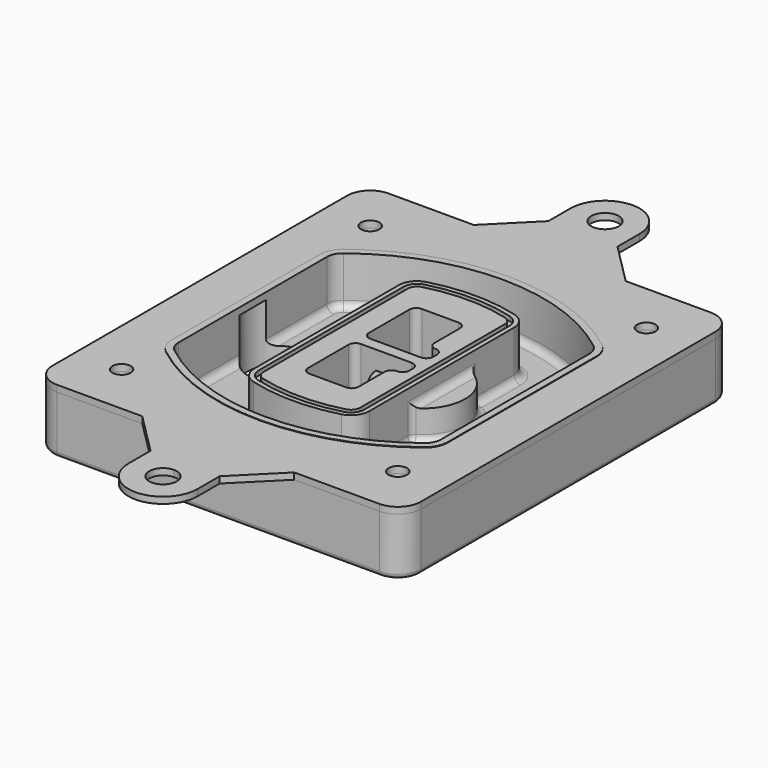
from build123d import *

# Parameters (mm, degrees)
F0_R      = 4
F1_DEPTH  = 25
F2_DEPTH  = 3
F3_DEPTH  = 18
F5_DEPTH  = 21
F6_DEPTH  = 2
F8_DEPTH  = 20
F9_DEPTH  = 16
F10_DEPTH = 25
F7_R      = 6
F7_R_2    = 4
F11_DEPTH = 6
F13_DEPTH = 9
F14_R     = 3
F15_R     = 2
F16_R     = 4
F17_DEPTH = 2.8


with BuildPart() as f1:
    # F0 (on Top) → F1 (new body)
    with BuildSketch(Plane.XY):
        with BuildLine():
            ThreePointArc((-80, -80), (-77.0710678119, -87.0710678119), (-70, -90))
            Line((-70, -90), (70, -90))
            ThreePointArc((70, -90), (77.0710678119, -87.0710678119), (80, -80))
            Line((80, -80), (80, 80))
            ThreePointArc((80, 80), (77.0710678119, 87.0710678119), (70, 90))
            Line((70, 90), (-70, 90))
            ThreePointArc((-70, 90), (-77.0710678119, 87.0710678119), (-80, 80))
            Line((-80, 80), (-80, -80))
        make_face()
        with Locations((-60, -67.5)):
            Circle(F0_R, mode=Mode.SUBTRACT)
        with Locations((60, -67.5)):
            Circle(F0_R, mode=Mode.SUBTRACT)
        with Locations((-60, 67.5)):
            Circle(F0_R, mode=Mode.SUBTRACT)
        with BuildLine():
            ThreePointArc((-64, 40.2934422872), (-62.5820384798, 46.4328484224), (-58.6153846154, 51.3286200352))
            ThreePointArc((-58.6153846154, 51.3286200352), (0, 71.5), (58.6153846154, 51.3286200352))
            ThreePointArc((58.6153846154, 51.3286200352), (62.5820384798, 46.4328484224), (64, 40.2934422872))
            Line((64, 40.2934422872), (64, -40.2934422872))
            ThreePointArc((64, -40.2934422872), (62.5820384798, -46.4328484224), (58.6153846154, -51.3286200352))
            ThreePointArc((58.6153846154, -51.3286200352), (0, -71.5), (-58.6153846154, -51.3286200352))
            ThreePointArc((-58.6153846154, -51.3286200352), (-62.5820384798, -46.4328484224), (-64, -40.2934422872))
            Line((-64, -40.2934422872), (-64, 40.2934422872))
        make_face(mode=Mode.SUBTRACT)
        with Locations((60, 67.5)):
            Circle(F0_R, mode=Mode.SUBTRACT)
        with BuildLine():
            ThreePointArc((58.6153846154, 51.3286200352), (0, 71.5), (-58.6153846154, 51.3286200352))
            ThreePointArc((-58.6153846154, 51.3286200352), (-62.5820384798, 46.4328484224), (-64, 40.2934422872))
            Line((-64, 40.2934422872), (-64, -40.2934422872))
            ThreePointArc((-64, -40.2934422872), (-62.5820384798, -46.4328484224), (-58.6153846154, -51.3286200352))
            ThreePointArc((-58.6153846154, -51.3286200352), (0, -71.5), (58.6153846154, -51.3286200352))
            ThreePointArc((58.6153846154, -51.3286200352), (62.5820384798, -46.4328484224), (64, -40.2934422872))
            Line((64, -40.2934422872), (64, 40.2934422872))
            ThreePointArc((64, 40.2934422872), (62.5820384798, 46.4328484224), (58.6153846154, 51.3286200352))
        make_face()
        with BuildLine():
            Line((-60, -40.2934422872), (-60, 40.2934422872))
            ThreePointArc((-60, 40.2934422872), (-58.9871703427, 44.6787323838), (-56.1538461538, 48.1757121072))
            ThreePointArc((-56.1538461538, 48.1757121072), (0, 67.5), (56.1538461538, 48.1757121072))
            ThreePointArc((56.1538461538, 48.1757121072), (58.9871703427, 44.6787323838), (60, 40.2934422872))
            Line((60, 40.2934422872), (60, -40.2934422872))
            ThreePointArc((60, -40.2934422872), (58.9871703427, -44.6787323838), (56.1538461538, -48.1757121072))
            ThreePointArc((56.1538461538, -48.1757121072), (0, -67.5), (-56.1538461538, -48.1757121072))
            ThreePointArc((-56.1538461538, -48.1757121072), (-58.9871703427, -44.6787323838), (-60, -40.2934422872))
        make_face(mode=Mode.SUBTRACT)
        with BuildLine():
            ThreePointArc((-56.1538461538, 48.1757121072), (-58.9871703427, 44.6787323838), (-60, 40.2934422872))
            Line((-60, 40.2934422872), (-60, -40.2934422872))
            ThreePointArc((-60, -40.2934422872), (-58.9871703427, -44.6787323838), (-56.1538461538, -48.1757121072))
            ThreePointArc((-56.1538461538, -48.1757121072), (0, -67.5), (56.1538461538, -48.1757121072))
            ThreePointArc((56.1538461538, -48.1757121072), (58.9871703427, -44.6787323838), (60, -40.2934422872))
            Line((60, -40.2934422872), (60, 40.2934422872))
            ThreePointArc((60, 40.2934422872), (58.9871703427, 44.6787323838), (56.1538461538, 48.1757121072))
            ThreePointArc((56.1538461538, 48.1757121072), (0, 67.5), (-56.1538461538, 48.1757121072))
        make_face()
        with BuildLine():
            ThreePointArc((54.3076923077, 45.8110311612), (56.2910192399, 43.3631453548), (57, 40.2934422872))
            Line((57, 40.2934422872), (57, -40.2934422872))
            ThreePointArc((57, -40.2934422872), (56.2910192399, -43.3631453548), (54.3076923077, -45.8110311612))
            ThreePointArc((54.3076923077, -45.8110311612), (0, -64.5), (-54.3076923077, -45.8110311612))
            ThreePointArc((-54.3076923077, -45.8110311612), (-56.2910192399, -43.3631453548), (-57, -40.2934422872))
            Line((-57, -40.2934422872), (-57, 40.2934422872))
            ThreePointArc((-57, 40.2934422872), (-56.2910192399, 43.3631453548), (-54.3076923077, 45.8110311612))
            ThreePointArc((-54.3076923077, 45.8110311612), (0, 64.5), (54.3076923077, 45.8110311612))
        make_face(mode=Mode.SUBTRACT)
        with BuildLine():
            Line((57, -40.2934422872), (57, 40.2934422872))
            ThreePointArc((57, 40.2934422872), (56.2910192399, 43.3631453548), (54.3076923077, 45.8110311612))
            ThreePointArc((54.3076923077, 45.8110311612), (0, 64.5), (-54.3076923077, 45.8110311612))
            ThreePointArc((-54.3076923077, 45.8110311612), (-56.2910192399, 43.3631453548), (-57, 40.2934422872))
            Line((-57, 40.2934422872), (-57, -40.2934422872))
            ThreePointArc((-57, -40.2934422872), (-56.2910192399, -43.3631453548), (-54.3076923077, -45.8110311612))
            ThreePointArc((-54.3076923077, -45.8110311612), (0, -64.5), (54.3076923077, -45.8110311612))
            ThreePointArc((54.3076923077, -45.8110311612), (56.2910192399, -43.3631453548), (57, -40.2934422872))
        make_face()
    extrude(amount=-F1_DEPTH)

    # F0 (on Top) → F2 (join)
    with BuildSketch(Plane.XY):
        with BuildLine():
            ThreePointArc((-56.1538461538, 48.1757121072), (-58.9871703427, 44.6787323838), (-60, 40.2934422872))
            Line((-60, 40.2934422872), (-60, -40.2934422872))
            ThreePointArc((-60, -40.2934422872), (-58.9871703427, -44.6787323838), (-56.1538461538, -48.1757121072))
            ThreePointArc((-56.1538461538, -48.1757121072), (0, -67.5), (56.1538461538, -48.1757121072))
            ThreePointArc((56.1538461538, -48.1757121072), (58.9871703427, -44.6787323838), (60, -40.2934422872))
            Line((60, -40.2934422872), (60, 40.2934422872))
            ThreePointArc((60, 40.2934422872), (58.9871703427, 44.6787323838), (56.1538461538, 48.1757121072))
            ThreePointArc((56.1538461538, 48.1757121072), (0, 67.5), (-56.1538461538, 48.1757121072))
        make_face()
        with BuildLine():
            ThreePointArc((54.3076923077, 45.8110311612), (56.2910192399, 43.3631453548), (57, 40.2934422872))
            Line((57, 40.2934422872), (57, -40.2934422872))
            ThreePointArc((57, -40.2934422872), (56.2910192399, -43.3631453548), (54.3076923077, -45.8110311612))
            ThreePointArc((54.3076923077, -45.8110311612), (0, -64.5), (-54.3076923077, -45.8110311612))
            ThreePointArc((-54.3076923077, -45.8110311612), (-56.2910192399, -43.3631453548), (-57, -40.2934422872))
            Line((-57, -40.2934422872), (-57, 40.2934422872))
            ThreePointArc((-57, 40.2934422872), (-56.2910192399, 43.3631453548), (-54.3076923077, 45.8110311612))
            ThreePointArc((-54.3076923077, 45.8110311612), (0, 64.5), (54.3076923077, 45.8110311612))
        make_face(mode=Mode.SUBTRACT)
    extrude(amount=F2_DEPTH)

    # F0 (on Top) → F3 (cut)
    with BuildSketch(Plane.XY):
        with BuildLine():
            Line((57, -40.2934422872), (57, 40.2934422872))
            ThreePointArc((57, 40.2934422872), (56.2910192399, 43.3631453548), (54.3076923077, 45.8110311612))
            ThreePointArc((54.3076923077, 45.8110311612), (0, 64.5), (-54.3076923077, 45.8110311612))
            ThreePointArc((-54.3076923077, 45.8110311612), (-56.2910192399, 43.3631453548), (-57, 40.2934422872))
            Line((-57, 40.2934422872), (-57, -40.2934422872))
            ThreePointArc((-57, -40.2934422872), (-56.2910192399, -43.3631453548), (-54.3076923077, -45.8110311612))
            ThreePointArc((-54.3076923077, -45.8110311612), (0, -64.5), (54.3076923077, -45.8110311612))
            ThreePointArc((54.3076923077, -45.8110311612), (56.2910192399, -43.3631453548), (57, -40.2934422872))
        make_face()
    extrude(amount=-F3_DEPTH, mode=Mode.SUBTRACT)

    # F4 (on face) → F5 (join, through all)
    with BuildSketch(Plane.XY.offset(3)):
        with BuildLine():
            ThreePointArc((-25, -39.2465276821), (-23.3511545998, -44.1109737193), (-19.0842911877, -46.9702398883))
            ThreePointArc((-19.0842911877, -46.9702398883), (0, -49.5), (19.0842911877, -46.9702398883))
            ThreePointArc((19.0842911877, -46.9702398883), (23.3511545998, -44.1109737193), (25, -39.2465276821))
            Line((25, -39.2465276821), (25, 39.2465276821))
            ThreePointArc((25, 39.2465276821), (23.3511545998, 44.1109737193), (19.0842911877, 46.9702398883))
            ThreePointArc((19.0842911877, 46.9702398883), (0, 49.5), (-19.0842911877, 46.9702398883))
            ThreePointArc((-19.0842911877, 46.9702398883), (-23.3511545998, 44.1109737193), (-25, 39.2465276821))
            Line((-25, 39.2465276821), (-25, -39.2465276821))
        make_face()
        with BuildLine():
            ThreePointArc((18.5632183908, 45.0393118368), (21.7633659499, 42.89486221), (23, 39.2465276821))
            Line((23, 39.2465276821), (23, -39.2465276821))
            ThreePointArc((23, -39.2465276821), (21.7633659499, -42.89486221), (18.5632183908, -45.0393118368))
            ThreePointArc((18.5632183908, -45.0393118368), (0, -47.5), (-18.5632183908, -45.0393118368))
            ThreePointArc((-18.5632183908, -45.0393118368), (-21.7633659499, -42.89486221), (-23, -39.2465276821))
            Line((-23, -39.2465276821), (-23, 39.2465276821))
            ThreePointArc((-23, 39.2465276821), (-21.7633659499, 42.89486221), (-18.5632183908, 45.0393118368))
            ThreePointArc((-18.5632183908, 45.0393118368), (0, 47.5), (18.5632183908, 45.0393118368))
        make_face(mode=Mode.SUBTRACT)
        with BuildLine():
            Line((23, -39.2465276821), (23, 39.2465276821))
            ThreePointArc((23, 39.2465276821), (21.7633659499, 42.89486221), (18.5632183908, 45.0393118368))
            ThreePointArc((18.5632183908, 45.0393118368), (0, 47.5), (-18.5632183908, 45.0393118368))
            ThreePointArc((-18.5632183908, 45.0393118368), (-21.7633659499, 42.89486221), (-23, 39.2465276821))
            Line((-23, 39.2465276821), (-23, -39.2465276821))
            ThreePointArc((-23, -39.2465276821), (-21.7633659499, -42.89486221), (-18.5632183908, -45.0393118368))
            ThreePointArc((-18.5632183908, -45.0393118368), (0, -47.5), (18.5632183908, -45.0393118368))
            ThreePointArc((18.5632183908, -45.0393118368), (21.7633659499, -42.89486221), (23, -39.2465276821))
        make_face()
        with BuildLine():
            ThreePointArc((18.0421455939, 43.1083837852), (20.1755772999, 41.6787507007), (21, 39.2465276821))
            Line((21, 39.2465276821), (21, -39.2465276821))
            ThreePointArc((21, -39.2465276821), (20.1755772999, -41.6787507007), (18.0421455939, -43.1083837852))
            ThreePointArc((18.0421455939, -43.1083837852), (0, -45.5), (-18.0421455939, -43.1083837852))
            ThreePointArc((-18.0421455939, -43.1083837852), (-20.1755772999, -41.6787507007), (-21, -39.2465276821))
            Line((-21, -39.2465276821), (-21, 39.2465276821))
            ThreePointArc((-21, 39.2465276821), (-20.1755772999, 41.6787507007), (-18.0421455939, 43.1083837852))
            ThreePointArc((-18.0421455939, 43.1083837852), (0, 45.5), (18.0421455939, 43.1083837852))
        make_face(mode=Mode.SUBTRACT)
        with BuildLine():
            Line((21, -39.2465276821), (21, 39.2465276821))
            ThreePointArc((21, 39.2465276821), (20.1755772999, 41.6787507007), (18.0421455939, 43.1083837852))
            ThreePointArc((18.0421455939, 43.1083837852), (0, 45.5), (-18.0421455939, 43.1083837852))
            ThreePointArc((-18.0421455939, 43.1083837852), (-20.1755772999, 41.6787507007), (-21, 39.2465276821))
            Line((-21, 39.2465276821), (-21, -39.2465276821))
            ThreePointArc((-21, -39.2465276821), (-20.1755772999, -41.6787507007), (-18.0421455939, -43.1083837852))
            ThreePointArc((-18.0421455939, -43.1083837852), (0, -45.5), (18.0421455939, -43.1083837852))
            ThreePointArc((18.0421455939, -43.1083837852), (20.1755772999, -41.6787507007), (21, -39.2465276821))
        make_face()
        with BuildLine():
            Line((-8, -2.5), (14, -2.5))
            ThreePointArc((14, -2.5), (16.1213203436, -3.3786796564), (17, -5.5))
            Line((17, -5.5), (17, -7.5))
            ThreePointArc((17, -7.5), (16.1213203436, -9.6213203436), (14, -10.5))
            ThreePointArc((14, -10.5), (11.8786796564, -11.3786796564), (11, -13.5))
            Line((11, -13.5), (11, -27.5))
            ThreePointArc((11, -27.5), (10.1213203436, -29.6213203436), (8, -30.5))
            Line((8, -30.5), (-8, -30.5))
            ThreePointArc((-8, -30.5), (-10.1213203436, -29.6213203436), (-11, -27.5))
            Line((-11, -27.5), (-11, -5.5))
            ThreePointArc((-11, -5.5), (-10.1213203436, -3.3786796564), (-8, -2.5))
        make_face(mode=Mode.SUBTRACT)
        with BuildLine():
            ThreePointArc((-8, 2.5), (-10.1213203436, 3.3786796564), (-11, 5.5))
            Line((-11, 5.5), (-11, 27.5))
            ThreePointArc((-11, 27.5), (-10.1213203436, 29.6213203436), (-8, 30.5))
            Line((-8, 30.5), (8, 30.5))
            ThreePointArc((8, 30.5), (10.1213203436, 29.6213203436), (11, 27.5))
            Line((11, 27.5), (11, 13.5))
            ThreePointArc((11, 13.5), (11.8786796564, 11.3786796564), (14, 10.5))
            ThreePointArc((14, 10.5), (16.1213203436, 9.6213203436), (17, 7.5))
            Line((17, 7.5), (17, 5.5))
            ThreePointArc((17, 5.5), (16.1213203436, 3.3786796564), (14, 2.5))
            Line((14, 2.5), (-8, 2.5))
        make_face(mode=Mode.SUBTRACT)
    extrude(amount=-F5_DEPTH)

    # F4 (on face) → F6 (cut)
    with BuildSketch(Plane.XY.offset(3)):
        with BuildLine():
            Line((23, -39.2465276821), (23, 39.2465276821))
            ThreePointArc((23, 39.2465276821), (21.7633659499, 42.89486221), (18.5632183908, 45.0393118368))
            ThreePointArc((18.5632183908, 45.0393118368), (0, 47.5), (-18.5632183908, 45.0393118368))
            ThreePointArc((-18.5632183908, 45.0393118368), (-21.7633659499, 42.89486221), (-23, 39.2465276821))
            Line((-23, 39.2465276821), (-23, -39.2465276821))
            ThreePointArc((-23, -39.2465276821), (-21.7633659499, -42.89486221), (-18.5632183908, -45.0393118368))
            ThreePointArc((-18.5632183908, -45.0393118368), (0, -47.5), (18.5632183908, -45.0393118368))
            ThreePointArc((18.5632183908, -45.0393118368), (21.7633659499, -42.89486221), (23, -39.2465276821))
        make_face()
        with BuildLine():
            ThreePointArc((18.0421455939, 43.1083837852), (20.1755772999, 41.6787507007), (21, 39.2465276821))
            Line((21, 39.2465276821), (21, -39.2465276821))
            ThreePointArc((21, -39.2465276821), (20.1755772999, -41.6787507007), (18.0421455939, -43.1083837852))
            ThreePointArc((18.0421455939, -43.1083837852), (0, -45.5), (-18.0421455939, -43.1083837852))
            ThreePointArc((-18.0421455939, -43.1083837852), (-20.1755772999, -41.6787507007), (-21, -39.2465276821))
            Line((-21, -39.2465276821), (-21, 39.2465276821))
            ThreePointArc((-21, 39.2465276821), (-20.1755772999, 41.6787507007), (-18.0421455939, 43.1083837852))
            ThreePointArc((-18.0421455939, 43.1083837852), (0, 45.5), (18.0421455939, 43.1083837852))
        make_face(mode=Mode.SUBTRACT)
    extrude(amount=-F6_DEPTH, mode=Mode.SUBTRACT)

    # F7 (on face) → F8 (join)
    with BuildSketch(Plane(origin=(0, 0, -25), x_dir=(1, 0, 0), z_dir=(0, 0, -1))):
        with BuildLine():
            ThreePointArc((3.28842436, 0), (16.7567035675, 13.4682792075), (30.224982775, 0))
            Line((30.224982775, 0), (35.224982775, 0))
            ThreePointArc((35.224982775, 0), (16.7567035675, 18.4682792075), (-1.71157564, 0))
            Line((-1.71157564, 0), (3.28842436, 0))
        make_face()
        with BuildLine():
            Line((3.28842436, 0), (30.224982775, 0))
            ThreePointArc((30.224982775, 0), (16.7567035675, 13.4682792075), (3.28842436, 0))
        make_face()
        with BuildLine():
            ThreePointArc((3.28842436, 0), (16.7567035675, -13.4682792075), (30.224982775, 0))
            Line((30.224982775, 0), (3.28842436, 0))
        make_face()
        with BuildLine():
            Line((35.224982775, 0), (30.224982775, 0))
            ThreePointArc((30.224982775, 0), (16.7567035675, -13.4682792075), (3.28842436, 0))
            Line((3.28842436, 0), (-1.71157564, 0))
            ThreePointArc((-1.71157564, 0), (16.7567035675, -18.4682792075), (35.224982775, 0))
        make_face()
    extrude(amount=-F8_DEPTH)

    # F7 (on face) → F9 (cut)
    with BuildSketch(Plane(origin=(0, 0, -25), x_dir=(1, 0, 0), z_dir=(0, 0, -1))):
        with BuildLine():
            Line((3.28842436, 0), (30.224982775, 0))
            ThreePointArc((30.224982775, 0), (16.7567035675, 13.4682792075), (3.28842436, 0))
        make_face()
        with BuildLine():
            ThreePointArc((3.28842436, 0), (16.7567035675, -13.4682792075), (30.224982775, 0))
            Line((30.224982775, 0), (3.28842436, 0))
        make_face()
    extrude(amount=-F9_DEPTH, mode=Mode.SUBTRACT)

    # F7 (on face) → F10 (cut)
    with BuildSketch(Plane(origin=(0, 0, -25), x_dir=(1, 0, 0), z_dir=(0, 0, -1))):
        with BuildLine():
            Line((-59.0318229325, 0), (-32.0952645175, 0))
            ThreePointArc((-32.0952645175, 0), (-45.563543725, 13.4682792075), (-59.0318229325, 0))
        make_face()
        with BuildLine():
            ThreePointArc((-59.0318229325, 0), (-45.563543725, -13.4682792075), (-32.0952645175, 0))
            Line((-32.0952645175, 0), (-59.0318229325, 0))
        make_face()
    extrude(amount=-F10_DEPTH, mode=Mode.SUBTRACT)

    # F7 (on face) → F11 (cut)
    with BuildSketch(Plane(origin=(0, 0, -25), x_dir=(1, 0, 0), z_dir=(0, 0, -1))):
        with Locations((60, -67.5)):
            Circle(F7_R)
        with Locations((60, -67.5)):
            Circle(F7_R_2, mode=Mode.SUBTRACT)
        with Locations((60, -67.5)):
            Circle(F7_R)
        with Locations((60, -67.5)):
            Circle(F7_R_2, mode=Mode.SUBTRACT)
        with Locations((-60, -67.5)):
            Circle(F7_R)
        with Locations((-60, -67.5)):
            Circle(F7_R_2, mode=Mode.SUBTRACT)
        with Locations((-60, -67.5)):
            Circle(F7_R)
        with Locations((-60, -67.5)):
            Circle(F7_R_2, mode=Mode.SUBTRACT)
        with Locations((-60, 67.5)):
            Circle(F7_R)
        with Locations((-60, 67.5)):
            Circle(F7_R_2, mode=Mode.SUBTRACT)
        with Locations((-60, 67.5)):
            Circle(F7_R)
        with Locations((-60, 67.5)):
            Circle(F7_R_2, mode=Mode.SUBTRACT)
        with Locations((60, 67.5)):
            Circle(F7_R)
        with Locations((60, 67.5)):
            Circle(F7_R_2, mode=Mode.SUBTRACT)
        with Locations((60, 67.5)):
            Circle(F7_R)
        with Locations((60, 67.5)):
            Circle(F7_R_2, mode=Mode.SUBTRACT)
    extrude(amount=-F11_DEPTH, mode=Mode.SUBTRACT)

    # F12 (on face) → F13 (cut, through all)
    with BuildSketch(Plane(origin=(0, 0, -9), x_dir=(1, 0, 0), z_dir=(0, 0, -1))):
        with BuildLine():
            Line((11, 13.5), (11, 17.5481537753))
            ThreePointArc((11, 17.5481537753), (2.5696536419, 11.8239143813), (-1.5415842455, 2.5))
            Line((-1.5415842455, 2.5), (3.5224848595, 2.5))
            ThreePointArc((3.5224848595, 2.5), (6.1857188154, 8.3455872281), (11.2536447004, 12.2927168648))
            ThreePointArc((11.2536447004, 12.2927168648), (11.0640958889, 12.8831798879), (11, 13.5))
        make_face()
        with BuildLine():
            ThreePointArc((11.2536447004, -12.2927168648), (6.1857188154, -8.3455872281), (3.5224848595, -2.5))
            Line((3.5224848595, -2.5), (-1.5415842455, -2.5))
            ThreePointArc((-1.5415842455, -2.5), (2.5696536419, -11.8239143813), (11, -17.5481537753))
            Line((11, -17.5481537753), (11, -13.5))
            ThreePointArc((11, -13.5), (11.0640958889, -12.8831798879), (11.2536447004, -12.2927168648))
        make_face()
        with BuildLine():
            ThreePointArc((11.2536447004, 12.2927168648), (6.1857188154, 8.3455872281), (3.5224848595, 2.5))
            Line((3.5224848595, 2.5), (14, 2.5))
            ThreePointArc((14, 2.5), (16.1213203436, 3.3786796564), (17, 5.5))
            Line((17, 5.5), (17, 7.5))
            ThreePointArc((17, 7.5), (16.1213203436, 9.6213203436), (14, 10.5))
            ThreePointArc((14, 10.5), (12.3601599782, 10.9878446101), (11.2536447004, 12.2927168648))
        make_face()
        with BuildLine():
            Line((14, -2.5), (3.5224848595, -2.5))
            ThreePointArc((3.5224848595, -2.5), (6.1857188154, -8.3455872281), (11.2536447004, -12.2927168648))
            ThreePointArc((11.2536447004, -12.2927168648), (12.3601599782, -10.9878446101), (14, -10.5))
            ThreePointArc((14, -10.5), (16.1213203436, -9.6213203436), (17, -7.5))
            Line((17, -7.5), (17, -5.5))
            ThreePointArc((17, -5.5), (16.1213203436, -3.3786796564), (14, -2.5))
        make_face()
    extrude(amount=F13_DEPTH, mode=Mode.SUBTRACT)

    # F14
    f14_edges = [f1.edges().sort_by_distance(p)[0] for p in [
        (-57, -23.703476, -18),
        (-57, 23.703476, -18),
        (25, 0, -5),
        (25, 16.526506, -11.5),
        (25, -16.526506, -11.5),
        (25, -27.886517, -18),
        (35.224983, 0, -18),
    ]]
    fillet(f14_edges, radius=F14_R)

    # F15
    f15_edges = [f1.edges().sort_by_distance(p)[0] for p in [
        (0, -90, -25),
    ]]
    fillet(f15_edges, radius=F15_R)


with BuildPart() as f17:
    # F16 (on face) → F17 (new body)
    with BuildSketch(Plane.XY):
        with BuildLine():
            Line((-33, 90), (-70, 90))
            ThreePointArc((-70, 90), (-77.0710678119, 87.0710678119), (-80, 80))
            Line((-80, 80), (-80, -80))
            ThreePointArc((-80, -80), (-77.0710678119, -87.0710678119), (-70, -90))
            Line((-70, -90), (-33, -90))
            Line((-33, -90), (0, -90))
            Line((0, -90), (33, -90))
            Line((33, -90), (70, -90))
            ThreePointArc((70, -90), (77.0710678119, -87.0710678119), (80, -80))
            Line((80, -80), (80, 80))
            ThreePointArc((80, 80), (77.0710678119, 87.0710678119), (70, 90))
            Line((70, 90), (33, 90))
            Line((33, 90), (0, 90))
            Line((0, 90), (-33, 90))
        make_face()
        with Locations((-60, -67.5)):
            Circle(F16_R, mode=Mode.SUBTRACT)
        with Locations((60, -67.5)):
            Circle(F16_R, mode=Mode.SUBTRACT)
        with Locations((-60, 67.5)):
            Circle(F16_R, mode=Mode.SUBTRACT)
        with BuildLine():
            ThreePointArc((-56.1538461538, 48.1757121072), (0, 67.5), (56.1538461538, 48.1757121072))
            ThreePointArc((56.1538461538, 48.1757121072), (58.9871703427, 44.6787323838), (60, 40.2934422872))
            Line((60, 40.2934422872), (60, -40.2934422872))
            ThreePointArc((60, -40.2934422872), (58.9871703427, -44.6787323838), (56.1538461538, -48.1757121072))
            ThreePointArc((56.1538461538, -48.1757121072), (0, -67.5), (-56.1538461538, -48.1757121072))
            ThreePointArc((-56.1538461538, -48.1757121072), (-58.9871703427, -44.6787323838), (-60, -40.2934422872))
            Line((-60, -40.2934422872), (-60, 40.2934422872))
            ThreePointArc((-60, 40.2934422872), (-58.9871703427, 44.6787323838), (-56.1538461538, 48.1757121072))
        make_face(mode=Mode.SUBTRACT)
        with Locations((60, 67.5)):
            Circle(F16_R, mode=Mode.SUBTRACT)
        with BuildLine():
            Line((-15, 108), (-33, 90))
            Line((-33, 90), (0, 90))
            Line((0, 90), (33, 90))
            Line((33, 90), (15, 108))
            Line((15, 108), (15, 120))
            ThreePointArc((15, 120), (0, 135), (-15, 120))
            Line((-15, 120), (-15, 108))
        make_face()
        with BuildLine():
            ThreePointArc((6, 120), (4.2426406871, 115.7573593129), (0, 114))
            ThreePointArc((0, 114), (-4.2426406871, 124.2426406871), (6, 120))
        make_face(mode=Mode.SUBTRACT)
        with BuildLine():
            Line((0, -90), (-33, -90))
            Line((-33, -90), (-15, -108))
            Line((-15, -108), (-15, -120))
            ThreePointArc((-15, -120), (0, -135), (15, -120))
            Line((15, -120), (15, -108))
            Line((15, -108), (33, -90))
            Line((33, -90), (0, -90))
        make_face()
        with BuildLine():
            ThreePointArc((6, -120), (-4.2426406871, -124.2426406871), (0, -114))
            ThreePointArc((0, -114), (4.2426406871, -115.7573593129), (6, -120))
        make_face(mode=Mode.SUBTRACT)
    extrude(amount=F17_DEPTH)


solid = Compound([f1.part, f17.part])
